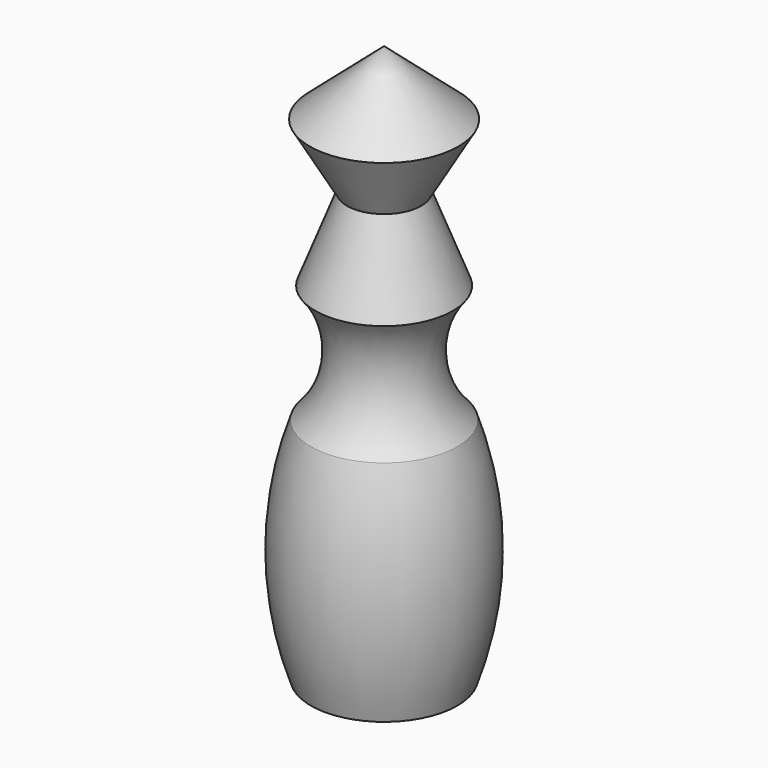
from build123d import *


with BuildPart() as f1:
    # F0 (on Front) → F1 (revolve)
    with BuildSketch(Plane.XZ):
        with BuildLine():
            Line((0, -75), (9.861586, -75))
            ThreePointArc((9.861586, -75), (12.5, -59.646224), (9.861586, -44.292448))
            ThreePointArc((9.861586, -44.292448), (6.508519, -36.456529), (9.259334, -28.389454))
            Line((9.259334, -28.389454), (5, -17.320508))
            Line((5, -17.320508), (10, -8.660254))
            Line((10, -8.660254), (0, 0))
            Line((0, 0), (0, -75))
        make_face()
    revolve(axis=Axis((0, 0, -37.5), (0, 0, 1)))


solid = f1.part
